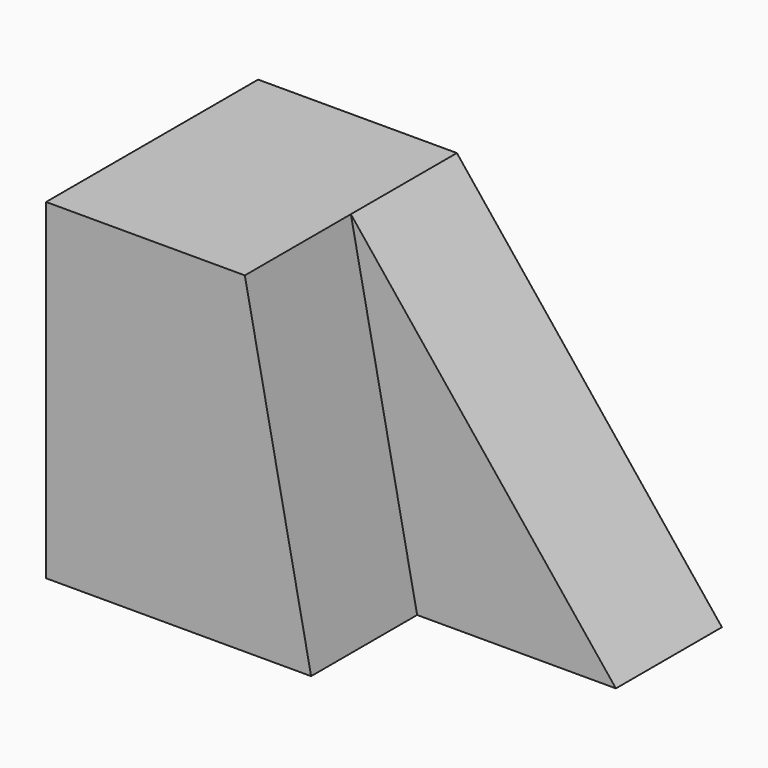
from build123d import *

# Parameters (mm, degrees)
F1_DEPTH = 25.4
F3_DEPTH = 25.4


with BuildPart() as f1:
    # F0 (on Front) → F1 (new body)
    with BuildSketch(Plane.XZ):
        Polygon((-22.690213, 17.148396), (-22.690213, -46.351604), (28.109787, -46.351604), (15.409787, 17.148396), align=None)
    extrude(amount=F1_DEPTH)

    # F2 (on face) → F3 (join)
    with BuildSketch(Plane(origin=(0, 0, 0), x_dir=(-1, 0, 0), z_dir=(0, 1, 0))):
        Polygon((-66.209787, -46.351604), (-28.109787, -46.351604), (-15.409787, 17.148396), align=None)
        Polygon((-28.109787, -46.351604), (22.690213, -46.351604), (22.690213, 17.148396), (-15.409787, 17.148396), align=None)
    extrude(amount=F3_DEPTH)


solid = f1.part
